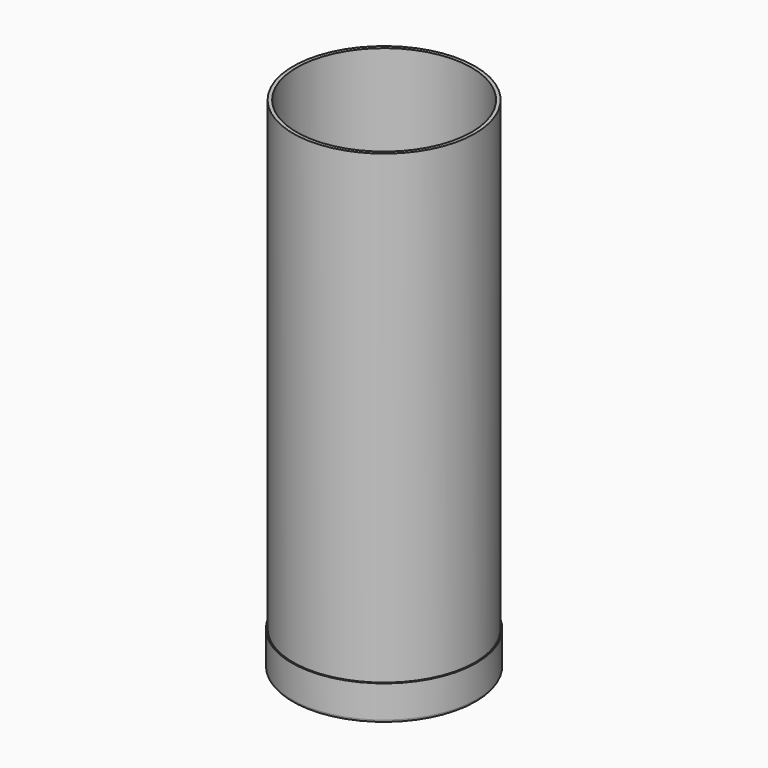
from build123d import *

# Parameters (mm, degrees)
F0_R      = 65
F1_DEPTH  = 355.6
F2_T      = -2.5
F3_DEPTH  = 25
F5_R      = 66
F6_DEPTH  = 25
F7_R      = 65
F8_DEPTH  = 23
F9_R      = 2
F11_D     = 95
F11_DEPTH = 50.8
F11_TIP   = 28.5408794038


with BuildPart() as f1:
    # F0 (on Top) → F1 (new body)
    with BuildSketch(Plane.XY):
        Circle(F0_R)
    extrude(amount=F1_DEPTH)

    # F2
    f2_openings = [f1.faces().sort_by_distance(p)[0] for p in [
        (0, 0, 355.6),
    ]]
    offset(amount=F2_T, openings=f2_openings)

    # F3 (cut): a face of the model
    f3_faces = [f1.faces().sort_by_distance(p)[0] for p in [
        (0, 0, 2.5),
    ]]
    extrude(f3_faces, amount=-F3_DEPTH, mode=Mode.SUBTRACT)


with BuildPart() as f6:
    # F5 (on offset) → F6 (new body)
    with BuildSketch(Plane.XY.offset(-2)):
        Circle(F5_R)
    extrude(amount=F6_DEPTH)

    # F7 (on face) → F8 (cut)
    with BuildSketch(Plane.XY.offset(23)):
        Circle(F7_R)
    extrude(amount=-F8_DEPTH, mode=Mode.SUBTRACT)

    # F9
    f9_edges = [f6.edges().sort_by_distance(p)[0] for p in [
        (-66, 0, -2),
    ]]
    fillet(f9_edges, radius=F9_R)

    # F11
    with Locations(Plane(origin=(0, 0, -2), x_dir=(1, 0, 0), z_dir=(0, 0, -1))):
        with Locations((0, 0)):
            Hole(F11_D / 2, depth=F11_DEPTH)
            with Locations((0, 0, -(F11_DEPTH + F11_TIP / 2))):  # 118° drill point
                Cone(0, F11_D / 2, F11_TIP, mode=Mode.SUBTRACT)


solid = Compound([f1.part, f6.part])
